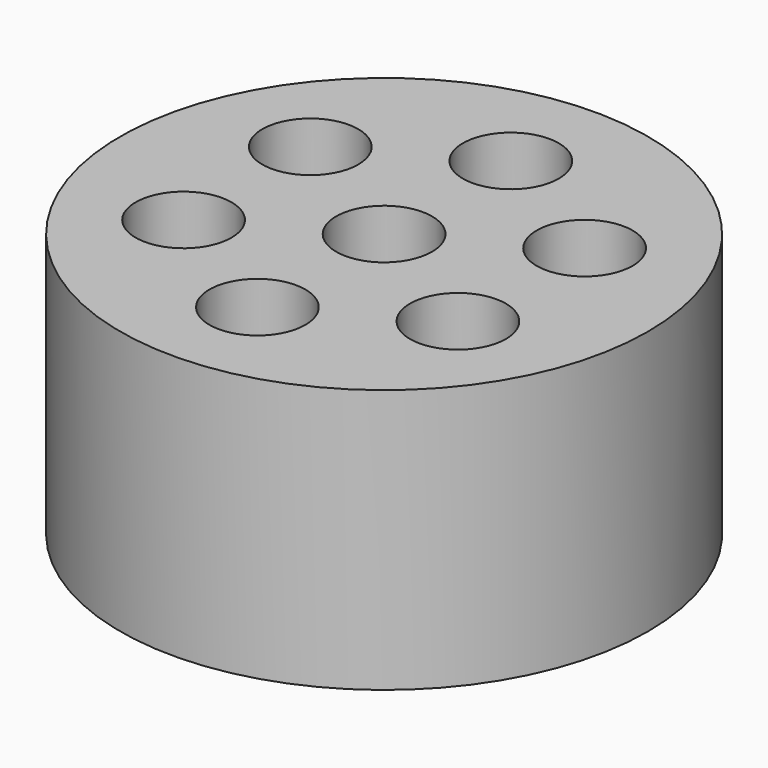
from build123d import *

# Parameters (mm, degrees)
F0_R     = 30
F1_DEPTH = 30
F2_R     = 4.9
F3_DEPTH = 30
F4_R     = 5.45
F5_DEPTH = 25


with BuildPart() as f1:
    # F0 (on Top) → F1 (new body)
    with BuildSketch(Plane.XY):
        Circle(F0_R)
    extrude(amount=F1_DEPTH)

    # F2 (on face) → F3 (cut, through all)
    with BuildSketch(Plane.XY.offset(30)):
        Circle(F2_R)
        with Locations((0, 18)):
            Circle(F2_R)
        with Locations((-15.588457, 9)):
            Circle(F2_R)
        with Locations((-15.588457, -9)):
            Circle(F2_R)
        with Locations((0, -18)):
            Circle(F2_R)
        with Locations((15.588457, -9)):
            Circle(F2_R)
        with Locations((15.588457, 9)):
            Circle(F2_R)
    extrude(amount=-F3_DEPTH, mode=Mode.SUBTRACT)

    # F4 (on face) → F5 (cut)
    with BuildSketch(Plane.XY.offset(30)):
        Circle(F4_R)
        with Locations((0, 18)):
            Circle(F4_R)
        with Locations((-15.588457, 9)):
            Circle(F4_R)
        with Locations((-15.588457, -9)):
            Circle(F4_R)
        with Locations((0, -18)):
            Circle(F4_R)
        with Locations((15.588457, -9)):
            Circle(F4_R)
        with Locations((15.588457, 9)):
            Circle(F4_R)
    extrude(amount=-F5_DEPTH, mode=Mode.SUBTRACT)


solid = f1.part
